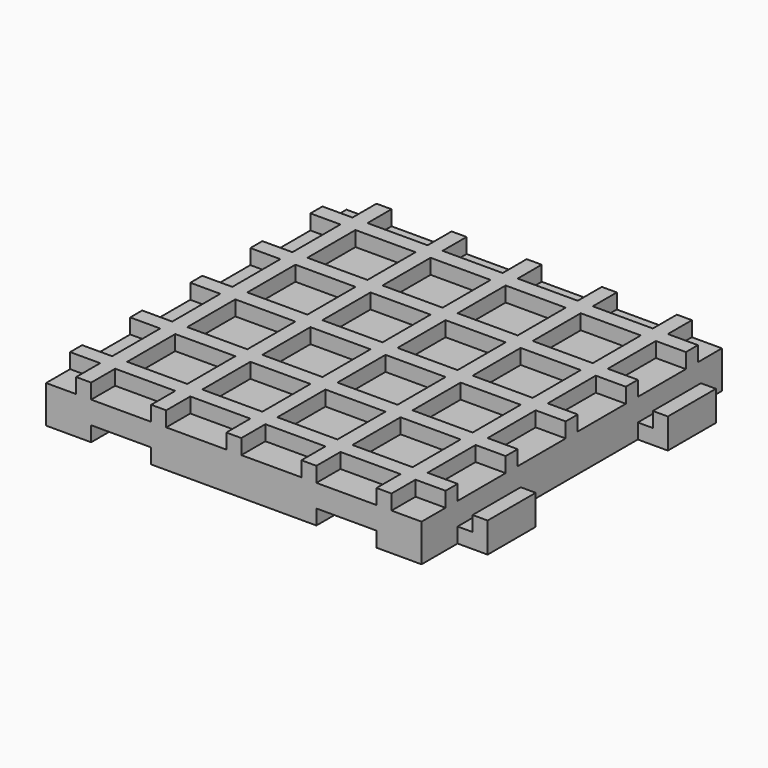
from build123d import *

# Parameters (mm, degrees)
F0_W      = 50
F0_H      = 50
F1_DEPTH  = 5
F2_W      = 4
F2_H      = 2
F2_W_2    = 2
F2_H_2    = 4
F2_W_3    = 8
F2_H_3    = 8
F4_DEPTH  = 2
F3_W      = 8
F3_H      = 2
F5_DEPTH  = 4
F6_W      = 8
F6_H      = 2
F7_DEPTH  = 4
F8_W      = 2
F8_H      = 8
F9_DEPTH  = 2
F10_W     = 2
F10_H     = 8
F11_DEPTH = 2
F12_W     = 8
F12_H     = 2
F13_DEPTH = 2
F14_W     = 8
F14_H     = 2
F15_DEPTH = 2


with BuildPart() as f1:
    # F0 (on Top) → F1 (new body)
    with BuildSketch(Plane.XY):
        with Locations((-4.374999553, 15.4727034503)):
            Rectangle(F0_W, F0_H)
    extrude(amount=F1_DEPTH)

    # F2 (on face) → F4 (join)
    with BuildSketch(Plane.XY.offset(5)):
        with Locations((-27.374999553, -4.5272965497)):
            Rectangle(F2_W, F2_H)
        with Locations((-24.374999553, -4.5272965497)):
            Rectangle(F2_W_2, F2_H)
        with Locations((-24.374999553, -7.5272965497)):
            Rectangle(F2_W_2, F2_H_2)
        with Locations((-19.374999553, -4.5272965497)):
            Rectangle(F2_W_3, F2_H)
        with Locations((-24.374999553, 0.4727034503)):
            Rectangle(F2_W_2, F2_H_3)
        with Locations((-14.374999553, -4.5272965497)):
            Rectangle(F2_W_2, F2_H)
        with Locations((-14.374999553, -7.5272965497)):
            Rectangle(F2_W_2, F2_H_2)
        with Locations((-24.374999553, 5.4727034503)):
            Rectangle(F2_W_2, F2_H)
        with Locations((-27.374999553, 5.4727034503)):
            Rectangle(F2_W, F2_H)
        with Locations((-9.374999553, -4.5272965497)):
            Rectangle(F2_W_3, F2_H)
        with Locations((-24.374999553, 10.4727034503)):
            Rectangle(F2_W_2, F2_H_3)
        with Locations((-4.374999553, -4.5272965497)):
            Rectangle(F2_W_2, F2_H)
        with Locations((-4.374999553, -7.5272965497)):
            Rectangle(F2_W_2, F2_H_2)
        with Locations((-24.374999553, 15.4727034503)):
            Rectangle(F2_W_2, F2_H)
        with Locations((-27.374999553, 15.4727034503)):
            Rectangle(F2_W, F2_H)
        with Locations((0.625000447, -4.5272965497)):
            Rectangle(F2_W_3, F2_H)
        with Locations((-24.374999553, 20.4727034503)):
            Rectangle(F2_W_2, F2_H_3)
        with Locations((5.625000447, -4.5272965497)):
            Rectangle(F2_W_2, F2_H)
        with Locations((5.625000447, -7.5272965497)):
            Rectangle(F2_W_2, F2_H_2)
        with Locations((-24.374999553, 25.4727034503)):
            Rectangle(F2_W_2, F2_H)
        with Locations((-27.374999553, 25.4727034503)):
            Rectangle(F2_W, F2_H)
        with Locations((10.625000447, -4.5272965497)):
            Rectangle(F2_W_3, F2_H)
        with Locations((-24.374999553, 30.4727034503)):
            Rectangle(F2_W_2, F2_H_3)
        with Locations((15.625000447, -4.5272965497)):
            Rectangle(F2_W_2, F2_H)
        with Locations((15.625000447, -7.5272965497)):
            Rectangle(F2_W_2, F2_H_2)
        with Locations((-24.374999553, 35.4727034503)):
            Rectangle(F2_W_2, F2_H)
        with Locations((-27.374999553, 35.4727034503)):
            Rectangle(F2_W, F2_H)
        with Locations((18.625000447, -4.5272965497)):
            Rectangle(F2_W, F2_H)
        with Locations((15.625000447, 0.4727034503)):
            Rectangle(F2_W_2, F2_H_3)
        with Locations((-19.374999553, 35.4727034503)):
            Rectangle(F2_W_3, F2_H)
        with Locations((-24.374999553, 38.4727034503)):
            Rectangle(F2_W_2, F2_H_2)
        with Locations((15.625000447, 5.4727034503)):
            Rectangle(F2_W_2, F2_H)
        with Locations((-14.374999553, 35.4727034503)):
            Rectangle(F2_W_2, F2_H)
        with Locations((18.625000447, 5.4727034503)):
            Rectangle(F2_W, F2_H)
        with Locations((15.625000447, 10.4727034503)):
            Rectangle(F2_W_2, F2_H_3)
        with Locations((-9.374999553, 35.4727034503)):
            Rectangle(F2_W_3, F2_H)
        with Locations((-14.374999553, 38.4727034503)):
            Rectangle(F2_W_2, F2_H_2)
        with Locations((15.625000447, 15.4727034503)):
            Rectangle(F2_W_2, F2_H)
        with Locations((-4.374999553, 35.4727034503)):
            Rectangle(F2_W_2, F2_H)
        with Locations((18.625000447, 15.4727034503)):
            Rectangle(F2_W, F2_H)
        with Locations((15.625000447, 20.4727034503)):
            Rectangle(F2_W_2, F2_H_3)
        with Locations((0.625000447, 35.4727034503)):
            Rectangle(F2_W_3, F2_H)
        with Locations((-4.374999553, 38.4727034503)):
            Rectangle(F2_W_2, F2_H_2)
        with Locations((15.625000447, 25.4727034503)):
            Rectangle(F2_W_2, F2_H)
        with Locations((5.625000447, 35.4727034503)):
            Rectangle(F2_W_2, F2_H)
        with Locations((18.625000447, 25.4727034503)):
            Rectangle(F2_W, F2_H)
        with Locations((15.625000447, 30.4727034503)):
            Rectangle(F2_W_2, F2_H_3)
        with Locations((10.625000447, 35.4727034503)):
            Rectangle(F2_W_3, F2_H)
        with Locations((5.625000447, 38.4727034503)):
            Rectangle(F2_W_2, F2_H_2)
        with Locations((15.625000447, 35.4727034503)):
            Rectangle(F2_W_2, F2_H)
        with Locations((18.625000447, 35.4727034503)):
            Rectangle(F2_W, F2_H)
        with Locations((15.625000447, 38.4727034503)):
            Rectangle(F2_W_2, F2_H_2)
        with Locations((-14.374999553, 0.4727034503)):
            Rectangle(F2_W_2, F2_H_3)
        with Locations((-14.374999553, 5.4727034503)):
            Rectangle(F2_W_2, F2_H)
        with Locations((-9.374999553, 5.4727034503)):
            Rectangle(F2_W_3, F2_H)
        with Locations((-14.374999553, 10.4727034503)):
            Rectangle(F2_W_2, F2_H_3)
        with Locations((-14.374999553, 15.4727034503)):
            Rectangle(F2_W_2, F2_H)
        with Locations((-19.374999553, 15.4727034503)):
            Rectangle(F2_W_3, F2_H)
        with Locations((-19.374999553, 25.4727034503)):
            Rectangle(F2_W_3, F2_H)
        with Locations((-14.374999553, 25.4727034503)):
            Rectangle(F2_W_2, F2_H)
        with Locations((-14.374999553, 30.4727034503)):
            Rectangle(F2_W_2, F2_H_3)
        with Locations((-14.374999553, 20.4727034503)):
            Rectangle(F2_W_2, F2_H_3)
        with Locations((-9.374999553, 25.4727034503)):
            Rectangle(F2_W_3, F2_H)
        with Locations((-4.374999553, 20.4727034503)):
            Rectangle(F2_W_2, F2_H_3)
        with Locations((-4.374999553, 15.4727034503)):
            Rectangle(F2_W_2, F2_H)
        with Locations((-9.374999553, 15.4727034503)):
            Rectangle(F2_W_3, F2_H)
        with Locations((-4.374999553, 10.4727034503)):
            Rectangle(F2_W_2, F2_H_3)
        with Locations((-4.374999553, 5.4727034503)):
            Rectangle(F2_W_2, F2_H)
        with Locations((-4.374999553, 0.4727034503)):
            Rectangle(F2_W_2, F2_H_3)
        with Locations((0.625000447, 5.4727034503)):
            Rectangle(F2_W_3, F2_H)
        with Locations((5.625000447, 0.4727034503)):
            Rectangle(F2_W_2, F2_H_3)
        with Locations((5.625000447, 5.4727034503)):
            Rectangle(F2_W_2, F2_H)
        with Locations((10.625000447, 5.4727034503)):
            Rectangle(F2_W_3, F2_H)
        with Locations((5.625000447, 10.4727034503)):
            Rectangle(F2_W_2, F2_H_3)
        with Locations((10.625000447, 15.4727034503)):
            Rectangle(F2_W_3, F2_H)
        with Locations((5.625000447, 15.4727034503)):
            Rectangle(F2_W_2, F2_H)
        with Locations((0.625000447, 15.4727034503)):
            Rectangle(F2_W_3, F2_H)
        with Locations((5.625000447, 20.4727034503)):
            Rectangle(F2_W_2, F2_H_3)
        with Locations((5.625000447, 25.4727034503)):
            Rectangle(F2_W_2, F2_H)
        with Locations((0.625000447, 25.4727034503)):
            Rectangle(F2_W_3, F2_H)
        with Locations((-4.374999553, 30.4727034503)):
            Rectangle(F2_W_2, F2_H_3)
        with Locations((-4.374999553, 25.4727034503)):
            Rectangle(F2_W_2, F2_H)
        with Locations((5.625000447, 30.4727034503)):
            Rectangle(F2_W_2, F2_H_3)
        with Locations((10.625000447, 25.4727034503)):
            Rectangle(F2_W_3, F2_H)
        with Locations((-19.374999553, 5.4727034503)):
            Rectangle(F2_W_3, F2_H)
    extrude(amount=F4_DEPTH)

    # F3 (on face) → F5 (cut)
    with BuildSketch(Plane.XZ.offset(9.5272965497)):
        with Locations((-19.374999553, 1)):
            Rectangle(F3_W, F3_H)
        with Locations((10.625000447, 1)):
            Rectangle(F3_W, F3_H)
    extrude(amount=-F5_DEPTH, mode=Mode.SUBTRACT)

    # F6 (on face) → F7 (join)
    with BuildSketch(Plane.YZ.offset(20.625000447)):
        with Locations((0.4727034503, 1)):
            Rectangle(F6_W, F6_H)
        with Locations((30.4727034503, 1)):
            Rectangle(F6_W, F6_H)
    extrude(amount=F7_DEPTH)

    # F8 (on face) → F9 (join)
    with BuildSketch(Plane.XY.offset(2)):
        with Locations((23.625000447, 30.4727034503)):
            Rectangle(F8_W, F8_H)
    extrude(amount=F9_DEPTH)

    # F10 (on face) → F11 (join)
    with BuildSketch(Plane.XY.offset(2)):
        with Locations((23.625000447, 0.4727034503)):
            Rectangle(F10_W, F10_H)
    extrude(amount=F11_DEPTH)

    # F12 (on face) → F13 (cut)
    with BuildSketch(Plane(origin=(0, 0, 2), x_dir=(1, 0, 0), z_dir=(0, 0, -1))):
        with Locations((10.625000447, 6.5272965497)):
            Rectangle(F12_W, F12_H)
    extrude(amount=-F13_DEPTH, mode=Mode.SUBTRACT)

    # F14 (on face) → F15 (cut)
    with BuildSketch(Plane(origin=(0, 0, 2), x_dir=(1, 0, 0), z_dir=(0, 0, -1))):
        with Locations((-19.374999553, 6.5272965497)):
            Rectangle(F14_W, F14_H)
    extrude(amount=-F15_DEPTH, mode=Mode.SUBTRACT)


solid = f1.part
